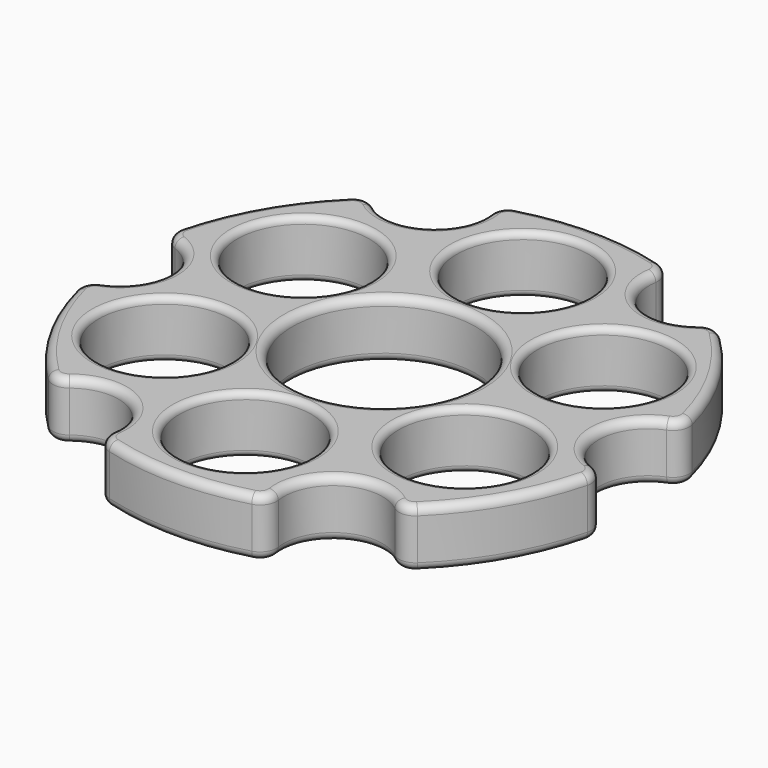
from build123d import *

# Parameters (mm, degrees)
F0_R     = 8
F0_R_2   = 11.125
F1_DEPTH = 7
F2_R     = 1
F3_R     = 0.8
F4_R     = 1


with BuildPart() as f1:
    # F0 (on Top) → F1 (new body)
    with BuildSketch(Plane.XY):
        with BuildLine():
            ThreePointArc((-19.731623, 23.01441), (-21.078492, 23.445622), (-22.373864, 22.878161))
            ThreePointArc((-22.373864, 22.878161), (-27.712813, 16), (-31, 7.937254))
            ThreePointArc((-31, 7.937254), (-30.84375, 6.531699), (-29.796875, 5.580882))
            ThreePointArc((-29.796875, 5.580882), (-26, 0), (-29.796875, -5.580882))
            ThreePointArc((-29.796875, -5.580882), (-30.84375, -6.531699), (-31, -7.937254))
            ThreePointArc((-31, -7.937254), (-27.712813, -16), (-22.373864, -22.878161))
            ThreePointArc((-22.373864, -22.878161), (-21.078492, -23.445622), (-19.731623, -23.01441))
            ThreePointArc((-19.731623, -23.01441), (-13, -22.51666), (-10.065252, -28.595292))
            ThreePointArc((-10.065252, -28.595292), (-9.765258, -29.97732), (-8.626136, -30.815414))
            ThreePointArc((-8.626136, -30.815414), (0, -32), (8.626136, -30.815414))
            ThreePointArc((8.626136, -30.815414), (9.765258, -29.97732), (10.065252, -28.595292))
            ThreePointArc((10.065252, -28.595292), (13, -22.51666), (19.731623, -23.01441))
            ThreePointArc((19.731623, -23.01441), (21.078492, -23.445622), (22.373864, -22.878161))
            ThreePointArc((22.373864, -22.878161), (27.712813, -16), (31, -7.937254))
            ThreePointArc((31, -7.937254), (30.84375, -6.531699), (29.796875, -5.580882))
            ThreePointArc((29.796875, -5.580882), (26, 0), (29.796875, 5.580882))
            ThreePointArc((29.796875, 5.580882), (30.84375, 6.531699), (31, 7.937254))
            ThreePointArc((31, 7.937254), (27.712813, 16), (22.373864, 22.878161))
            ThreePointArc((22.373864, 22.878161), (21.078492, 23.445622), (19.731623, 23.01441))
            ThreePointArc((19.731623, 23.01441), (13, 22.51666), (10.065252, 28.595292))
            ThreePointArc((10.065252, 28.595292), (9.765258, 29.97732), (8.626136, 30.815414))
            ThreePointArc((8.626136, 30.815414), (0, 32), (-8.626136, 30.815414))
            ThreePointArc((-8.626136, 30.815414), (-9.765258, 29.97732), (-10.065252, 28.595292))
            ThreePointArc((-10.065252, 28.595292), (-13, 22.51666), (-19.731623, 23.01441))
        make_face()
        with Locations((-18.186533, -10.5)):
            Circle(F0_R, mode=Mode.SUBTRACT)
        with Locations((0, -21)):
            Circle(F0_R, mode=Mode.SUBTRACT)
        with Locations((18.186533, -10.5)):
            Circle(F0_R, mode=Mode.SUBTRACT)
        with Locations((-18.186533, 10.5)):
            Circle(F0_R, mode=Mode.SUBTRACT)
        Circle(F0_R_2, mode=Mode.SUBTRACT)
        with Locations((18.186533, 10.5)):
            Circle(F0_R, mode=Mode.SUBTRACT)
        with Locations((0, 21)):
            Circle(F0_R, mode=Mode.SUBTRACT)
    extrude(amount=F1_DEPTH)

    # F2
    f2_edges = [f1.edges().sort_by_distance(p)[0] for p in [
        (11.125, 0, 3.5),
        (-11.125, 0, 0),
        (-11.125, 0, 7),
    ]]
    fillet(f2_edges, radius=F2_R)

    # F3
    f3_edges = [f1.edges().sort_by_distance(p)[0] for p in [
        (8, 21, 3.5),
        (-8, 21, 0),
        (-8, 21, 7),
        (26.186533, 10.5, 3.5),
        (10.186533, 10.5, 0),
        (10.186533, 10.5, 7),
        (26.186533, -10.5, 3.5),
        (10.186533, -10.5, 0),
        (10.186533, -10.5, 7),
        (8, -21, 3.5),
        (-8, -21, 0),
        (-8, -21, 7),
        (-10.186533, -10.5, 3.5),
        (-26.186533, -10.5, 0),
        (-26.186533, -10.5, 7),
        (-10.186533, 10.5, 3.5),
        (-26.186533, 10.5, 0),
        (-26.186533, 10.5, 7),
    ]]
    fillet(f3_edges, radius=F3_R)

    # F4
    f4_edges = [f1.edges().sort_by_distance(p)[0] for p in [
        (-8.8, 21, 7),
        (-12.125, 0, 7),
        (-9.765258, 29.97732, 7),
        (-13, 22.51666, 7),
        (-21.078492, 23.445622, 7),
        (-27.712813, 16, 7),
        (-30.84375, 6.531699, 7),
        (-26, 0, 7),
        (-30.84375, -6.531699, 7),
        (-27.712813, -16, 7),
        (-21.078492, -23.445622, 7),
        (-13, -22.51666, 7),
        (-9.765258, -29.97732, 7),
        (0, -32, 7),
        (9.765258, -29.97732, 7),
        (13, -22.51666, 7),
        (21.078492, -23.445622, 7),
        (27.712813, -16, 7),
        (30.84375, -6.531699, 7),
        (26, 0, 7),
        (30.84375, 6.531699, 7),
        (27.712813, 16, 7),
        (21.078492, 23.445622, 7),
        (13, 22.51666, 7),
        (9.765258, 29.97732, 7),
        (0, 32, 7),
        (9.386533, 10.5, 7),
        (9.386533, -10.5, 7),
        (-8.8, -21, 7),
        (-26.986533, -10.5, 7),
        (-26.986533, 10.5, 7),
        (-8.8, 21, 0),
        (-12.125, 0, 0),
        (-9.765258, 29.97732, 0),
        (-13, 22.51666, 0),
        (-21.078492, 23.445622, 0),
        (-27.712813, 16, 0),
        (-30.84375, 6.531699, 0),
        (-26, 0, 0),
        (-30.84375, -6.531699, 0),
        (-27.712813, -16, 0),
        (-21.078492, -23.445622, 0),
        (-13, -22.51666, 0),
        (-9.765258, -29.97732, 0),
        (0, -32, 0),
        (9.765258, -29.97732, 0),
        (13, -22.51666, 0),
        (21.078492, -23.445622, 0),
        (27.712813, -16, 0),
        (30.84375, -6.531699, 0),
        (26, 0, 0),
        (30.84375, 6.531699, 0),
        (27.712813, 16, 0),
        (21.078492, 23.445622, 0),
        (13, 22.51666, 0),
        (9.765258, 29.97732, 0),
        (0, 32, 0),
        (9.386533, 10.5, 0),
        (9.386533, -10.5, 0),
        (-8.8, -21, 0),
        (-26.986533, -10.5, 0),
        (-26.986533, 10.5, 0),
    ]]
    fillet(f4_edges, radius=F4_R)


solid = f1.part
